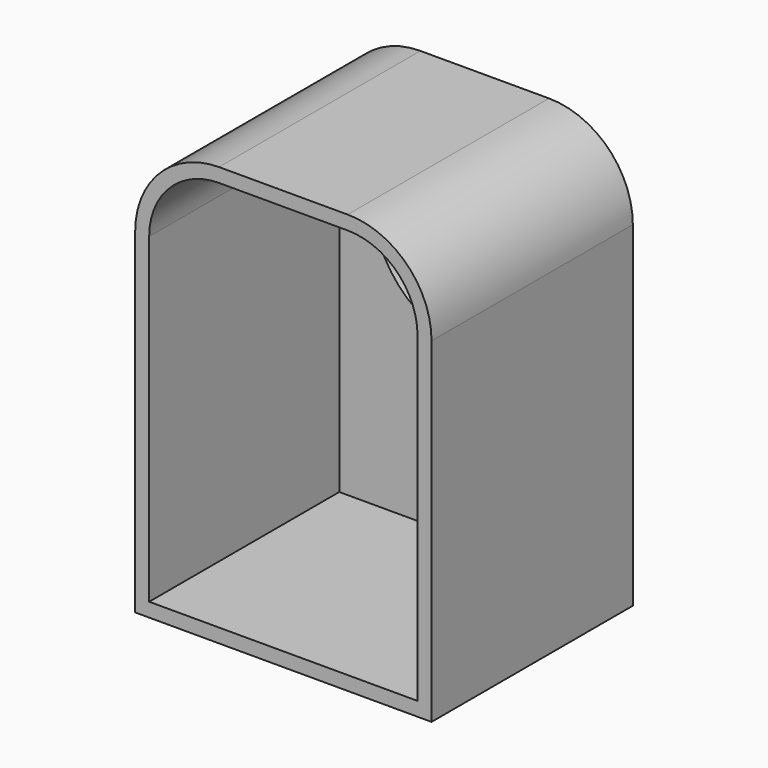
from build123d import *

# Parameters (mm, degrees)
F1_DEPTH = 45
F2_T     = -2.5
F3_R     = 18
F4_DEPTH = 25
F5_R     = 20
F5_R_2   = 18
F6_DEPTH = 6


with BuildPart() as f1:
    # F0 (on Front) → F1 (new body)
    with BuildSketch(Plane.XZ):
        with BuildLine():
            Line((-26.5, -37.5), (26.5, -37.5))
            Line((26.5, -37.5), (26.5, 22.5))
            ThreePointArc((26.5, 22.5), (22.106602, 33.106602), (11.5, 37.5))
            Line((11.5, 37.5), (-11.5, 37.5))
            ThreePointArc((-11.5, 37.5), (-22.106602, 33.106602), (-26.5, 22.5))
            Line((-26.5, 22.5), (-26.5, -37.5))
        make_face()
    extrude(amount=F1_DEPTH)

    # F2
    f2_openings = [f1.faces().sort_by_distance(p)[0] for p in [
        (0, -45, -0.850304),
    ]]
    offset(amount=F2_T, openings=f2_openings)

    # F3 (on face) → F4 (cut)
    with BuildSketch(Plane(origin=(0, 0, 0), x_dir=(-1, 0, 0), z_dir=(0, 1, 0))):
        with Locations((0, 13)):
            Circle(F3_R)
    extrude(amount=-F4_DEPTH, mode=Mode.SUBTRACT)

    # F5 (on face) → F6 (join)
    with BuildSketch(Plane(origin=(0, 0, 0), x_dir=(-1, 0, 0), z_dir=(0, 1, 0))):
        with Locations((0, 13)):
            Circle(F5_R)
        with Locations((0, 13)):
            Circle(F5_R_2, mode=Mode.SUBTRACT)
    extrude(amount=F6_DEPTH)


solid = f1.part
